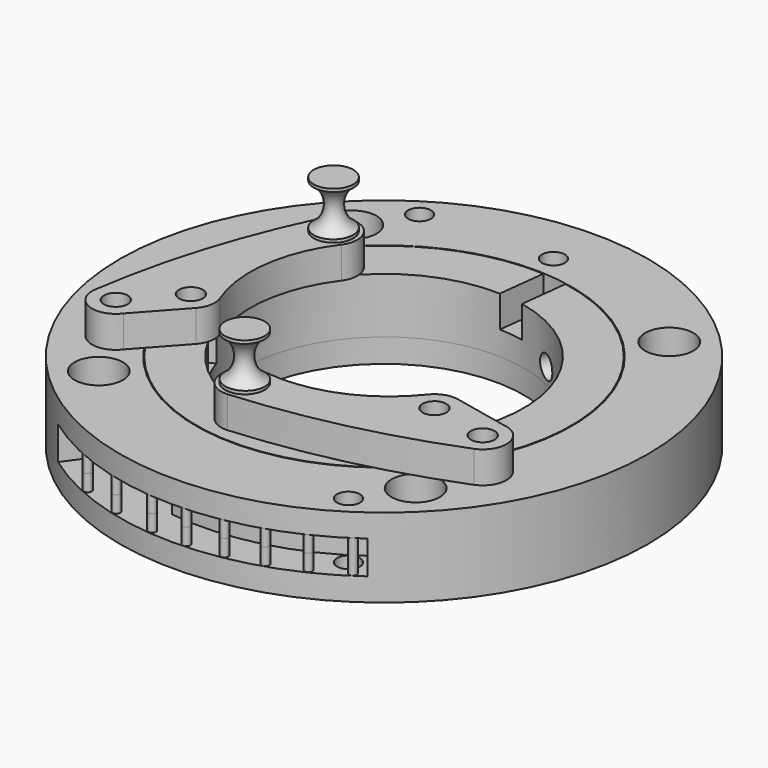
from build123d import *

# Parameters (mm, degrees)
SKETCH005_R             = 1.45
SKETCH005_R_2           = 3.05
POCKET_DEPTH            = 12
POCKET002_DEPTH         = 2.1
POCKET004_DEPTH         = 2.1
SKETCH011_R             = 1.45
POCKET005_DEPTH         = 5.5
SKETCH012_R             = 0.5
PAD002_DEPTH            = 3.5
SKETCH004_W             = 6
SKETCH004_H             = 7
POCKET001_DEPTH         = 4
SKETCH009_R             = 1.45
POCKET003_DEPTH         = 56.266485
SKETCH001_R             = 1.5
PAD_DEPTH               = 4
SKETCH006_R             = 2.5
PAD001_DEPTH            = 6
TORUS_R                 = 3
BODY003_PLACEMENT_ANGLE = 240
BODY004_PLACEMENT_ANGLE = 120


with BuildPart() as obj1:
    # Sketch003 → Revolution (revolve)
    with BuildSketch(Plane.XZ):
        Polygon((-33.334271, 0), (-33.334271, 10), (-23.734271, 10), (-23.734271, 3), (-17.634271, 3), (-17.634271, 0), align=None)
    revolve(axis=Axis((0, 0, 0), (0, 0, 1)))

    # Sketch005 (on DatumPlane) → Pocket (cut)
    with BuildSketch(Plane.XY.offset(10)):
        Circle(SKETCH005_R)
        with Locations((0, 26.734271)):
            Circle(SKETCH005_R)
        Circle(SKETCH005_R)
        with Locations((-20, 20)):
            Circle(SKETCH005_R_2)
        with Locations((20, 20)):
            Circle(SKETCH005_R_2)
        with Locations((-20, -20)):
            Circle(SKETCH005_R_2)
        with Locations((20, -20)):
            Circle(SKETCH005_R_2)
        with Locations((-23.152558, -13.367136)):
            Circle(SKETCH005_R)
        with Locations((23.152558, -13.367136)):
            Circle(SKETCH005_R)
    extrude(amount=-POCKET_DEPTH, mode=Mode.SUBTRACT)

    # Sketch008 (on DatumPlane) → Pocket002 (cut, symmetric)
    with BuildSketch(Plane.XY.offset(5)):
        Polygon((4.85086, 36.569708), (3.120942, 23.528182), (12.269472, 20.316882), (18.540047, 30.700257), align=None)
        Polygon((-12.269472, -20.316882), (-3.120942, -23.528182), (-4.675225, -35.24563), (-18.275464, -30.262136), align=None)
    extrude(amount=POCKET002_DEPTH, both=True, mode=Mode.SUBTRACT)

    # Sketch010 (on DatumPlane) → Pocket004 (cut, symmetric)
    with BuildSketch(Plane.XY.offset(5)):
        with BuildLine():
            ThreePointArc((19.898205, 27.526036), (0, 33.965), (-19.898205, 27.526036))
            Line((-19.898205, 27.526036), (-16.968983, 23.473918))
            ThreePointArc((16.968983, 23.473918), (0, 28.965), (-16.968983, 23.473918))
            Line((19.898205, 27.526036), (16.968983, 23.473918))
        make_face()
        with BuildLine():
            ThreePointArc((-16.968983, -23.473918), (0, -28.965), (16.968983, -23.473918))
            Line((16.968983, -23.473918), (19.898205, -27.526036))
            ThreePointArc((-19.898205, -27.526036), (0, -33.965), (19.898205, -27.526036))
            Line((-16.968983, -23.473918), (-19.898205, -27.526036))
        make_face()
    extrude(amount=POCKET004_DEPTH, both=True, mode=Mode.SUBTRACT)

    # Sketch011 (on DatumPlane) → Pocket005 (cut, symmetric)
    with BuildSketch(Plane.XY.offset(5)):
        with Locations((-16.192783, 25.846464)):
            Circle(SKETCH011_R)
        with Locations((16.192783, -25.846464)):
            Circle(SKETCH011_R)
    extrude(amount=POCKET005_DEPTH, both=True, mode=Mode.SUBTRACT)

    # Sketch012 (on DatumPlane) → Pad002 (join, symmetric)
    with BuildSketch(Plane.XY.offset(5)):
        with Locations((-12.210204, 30.401177)):
            Circle(SKETCH012_R)
        with Locations((-7.441769, 31.905183)):
            Circle(SKETCH012_R)
        with Locations((-2.5, 32.666047)):
            Circle(SKETCH012_R)
        with Locations((2.5, 32.666047)):
            Circle(SKETCH012_R)
        with Locations((7.441769, 31.905183)):
            Circle(SKETCH012_R)
        with Locations((12.210204, 30.401177)):
            Circle(SKETCH012_R)
        with Locations((-15.124859, 29.061302)):
            Circle(SKETCH012_R)
        with Locations((-13.517319, -29.842968)):
            Circle(SKETCH012_R)
        with Locations((-8.459692, -31.650502)):
            Circle(SKETCH012_R)
        with Locations((-3.174701, -32.607391)):
            Circle(SKETCH012_R)
        with Locations((1.264213, -32.737172)):
            Circle(SKETCH012_R)
        with Locations((5.679898, -32.265452)):
            Circle(SKETCH012_R)
        with Locations((9.991222, -31.200899)):
            Circle(SKETCH012_R)
        with Locations((14.118972, -29.563073)):
            Circle(SKETCH012_R)
        with Locations((17.987305, -27.382065)):
            Circle(SKETCH012_R)
    extrude(amount=PAD002_DEPTH, both=True)


with BuildPart() as innerringbody:
    # Sketch004 → Revolution001 (revolve)
    with BuildSketch(Plane.XZ):
        with Locations((-20.634271, 6.5)):
            Rectangle(SKETCH004_W, SKETCH004_H)
    revolve(axis=Axis((0, 0, 0), (0, 0, 1)))

    # Sketch007 (on DatumPlane) → Pocket001 (cut)
    with BuildSketch(Plane.XY.offset(10)):
        Polygon((0.32599, 15.926069), (1.292163, 24.081194), (4.370633, 23.716474), (3.404461, 15.561349), align=None)
        Polygon((14.676475, -9.027437), (26.314963, -17.720391), (24.459871, -20.204065), (12.821383, -11.511111), align=None)
        Polygon((-14.331406, -4.468391), (-13.108028, -7.316785), (-21.985043, -11.129443), (-23.208421, -8.28105), align=None)
    extrude(amount=-POCKET001_DEPTH, mode=Mode.SUBTRACT)

    # Sketch009 (on DatumPlane) → Pocket003 (cut, through all)
    with BuildSketch(Plane(origin=(11.039663, 21.896028, 0), x_dir=(-0.892927, 0.450201, 0), z_dir=(0.450201, 0.892927, 0))):
        with Locations((0, 5.026382)):
            Circle(SKETCH009_R)
    extrude(amount=-POCKET003_DEPTH, mode=Mode.SUBTRACT)


with BuildPart() as arm1body:
    # Sketch001 → Pad (new body)
    with BuildSketch(Plane.XY):
        with BuildLine():
            ThreePointArc((1.860793, 29.08745), (-1.830017, 29.111463), (-2.750862, 25.537292))
            Line((-2.750862, 25.537292), (-0.53186, 18.679356))
            ThreePointArc((-0.53186, 18.679356), (0.383198, 17.313955), (1.880384, 16.635661))
            ThreePointArc((14.98938, 6.544577), (9.745149, 13.292243), (1.880384, 16.635661))
            ThreePointArc((14.98938, 6.544577), (19.192559, 5.10351), (20.219752, 9.426503))
            ThreePointArc((20.219752, 9.426503), (11.781663, 19.949271), (1.860793, 29.08745))
        make_face()
        with Locations((2.322442, 19.602914)):
            Circle(SKETCH001_R, mode=Mode.SUBTRACT)
        with Locations((0, 26.734271)):
            Circle(SKETCH001_R, mode=Mode.SUBTRACT)
    extrude(amount=PAD_DEPTH)

    # Sketch006 (on DatumPlane) → Pad001 (join)
    with BuildSketch(Plane.XY.offset(4)):
        with Locations((17.74479, 7.731049)):
            Circle(SKETCH006_R)
    extrude(amount=PAD001_DEPTH)

    # Torus → Torus (revolve, cut)
    with BuildSketch(Plane(origin=(17.8, 7.7, 7), x_dir=(1, 0, 0), z_dir=(0, -1, 0))):
        with Locations((4, 0)):
            Circle(TORUS_R)
    revolve(axis=Axis((17.8, 7.7, 7), (0, 0, 1)), mode=Mode.SUBTRACT)


with BuildPart() as arm1body_1:
    # Body placement: moved
    add(arm1body.part.moved(Location((0, 0, 10.2))))


with BuildPart() as arm2placeholderbody:
    # Body003 base: copy of Arm1Body
    add(arm1body_1.part)


with BuildPart() as arm2placeholderbody_1:
    # Body003 placement: moved
    add(arm2placeholderbody.part.rotate(Axis((0, 0, 0), (0, 0, 1)), BODY003_PLACEMENT_ANGLE))


with BuildPart() as arm3placeholderbody:
    # Body004 base: copy of Arm1Body
    add(arm1body_1.part)


with BuildPart() as arm3placeholderbody_1:
    # Body004 placement: moved
    add(arm3placeholderbody.part.rotate(Axis((0, 0, 0), (0, 0, 1)), BODY004_PLACEMENT_ANGLE))


solid = Compound([obj1.part, innerringbody.part, arm2placeholderbody_1.part, arm3placeholderbody_1.part])
